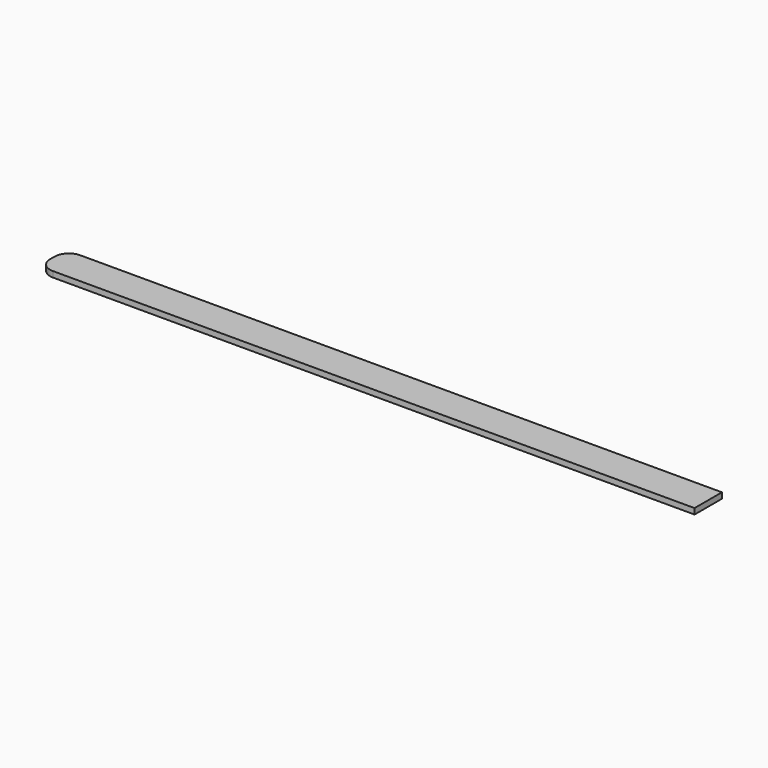
from build123d import *

# Parameters (mm, degrees)
F1_DEPTH = 1


with BuildPart() as f1:
    # F0 (on Top) → F1 (new body)
    with BuildSketch(Plane.XY):
        with BuildLine():
            Line((56.25, 0), (-56.25, 0))
            ThreePointArc((-56.25, 0), (-58.017767, -0.732233), (-58.75, -2.5))
            Line((-58.75, -2.5), (-58.75, -3.5))
            ThreePointArc((-58.75, -3.5), (-58.017767, -5.267767), (-56.25, -6))
            Line((-56.25, -6), (56.25, -6))
            Line((56.25, -6), (56.25, 0))
        make_face()
    extrude(amount=F1_DEPTH)


solid = f1.part
